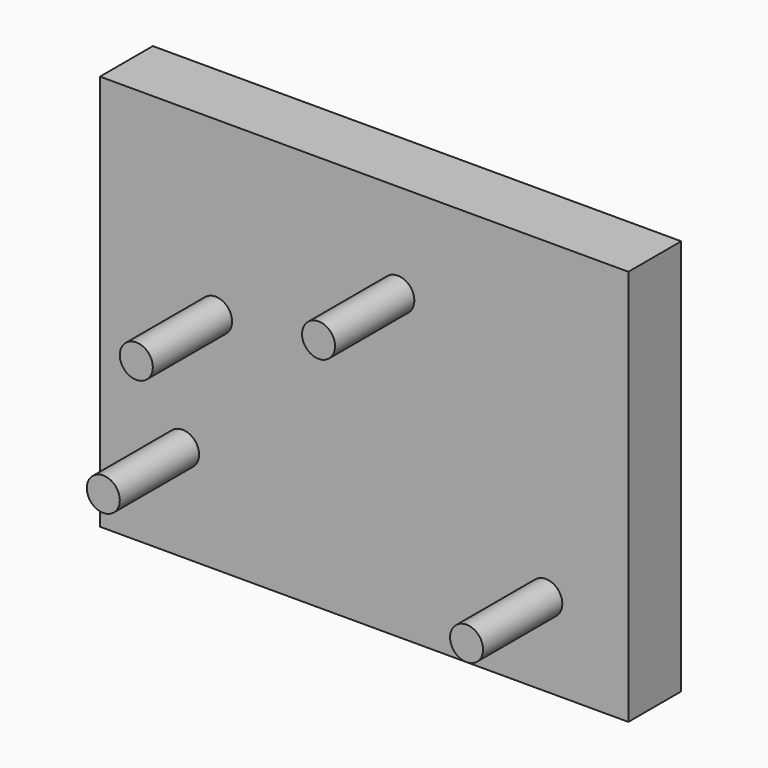
from build123d import *

# Parameters (mm, degrees)
F0_W     = 203.2
F0_H     = 152.4
F1_DEPTH = 25.4
F2_R     = 6.35
F3_DEPTH = 38.1


with BuildPart() as f1:
    # F0 (on Front) → F1 (new body)
    with BuildSketch(Plane.XZ):
        Rectangle(F0_W, F0_H)
    extrude(amount=F1_DEPTH)

    # F2 (on face) → F3 (join)
    with BuildSketch(Plane.XZ.offset(25.4)):
        with Locations((12.939512, 39.715054)):
            Circle(F2_R)
        with Locations((-57.15, 9.816888)):
            Circle(F2_R)
        with Locations((-69.85, -39.37)):
            Circle(F2_R)
        with Locations((69.85, -44.45)):
            Circle(F2_R)
    extrude(amount=F3_DEPTH)


solid = f1.part
